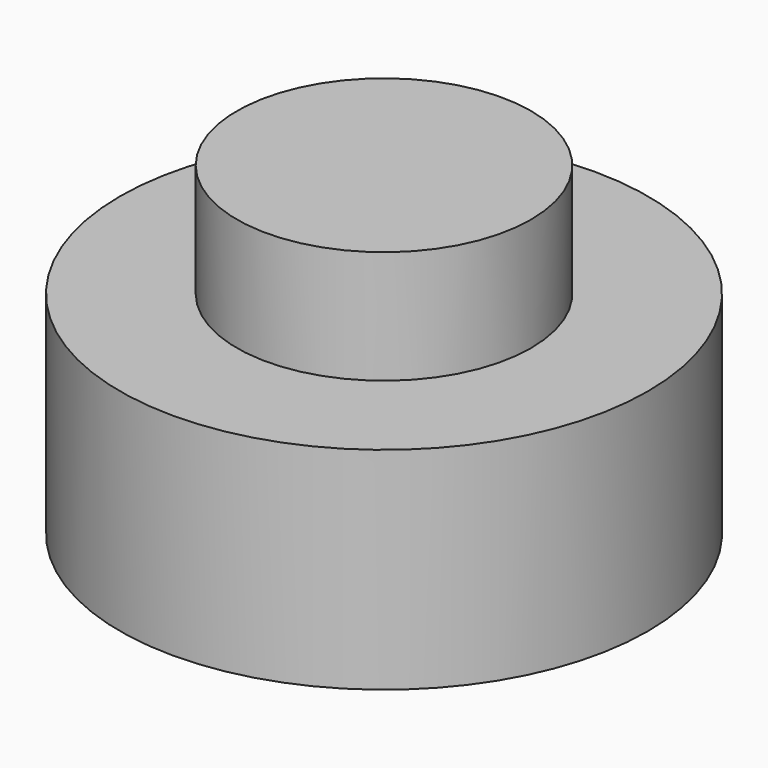
from build123d import *

# Parameters (mm, degrees)
CYLINDER005_R     = 1.95
CYLINDER005_DEPTH = 4.3
CYLINDER006_R     = 3.5
CYLINDER006_DEPTH = 2.8


with BuildPart() as cylinder005:
    # Cylinder005 → Cylinder005 (new body)
    with BuildSketch(Plane.XY):
        Circle(CYLINDER005_R)
    extrude(amount=CYLINDER005_DEPTH)


with BuildPart() as obj1:
    # Cylinder006 → Cylinder006 (new body)
    with BuildSketch(Plane.XY):
        Circle(CYLINDER006_R)
    extrude(amount=CYLINDER006_DEPTH)

    # Fusion002: union Cylinder005
    add(cylinder005.part)


with BuildPart() as obj1_1:
    # Fusion002 placement: moved
    add(obj1.part.moved(Location((-41, 0, 0))))


solid = obj1_1.part
